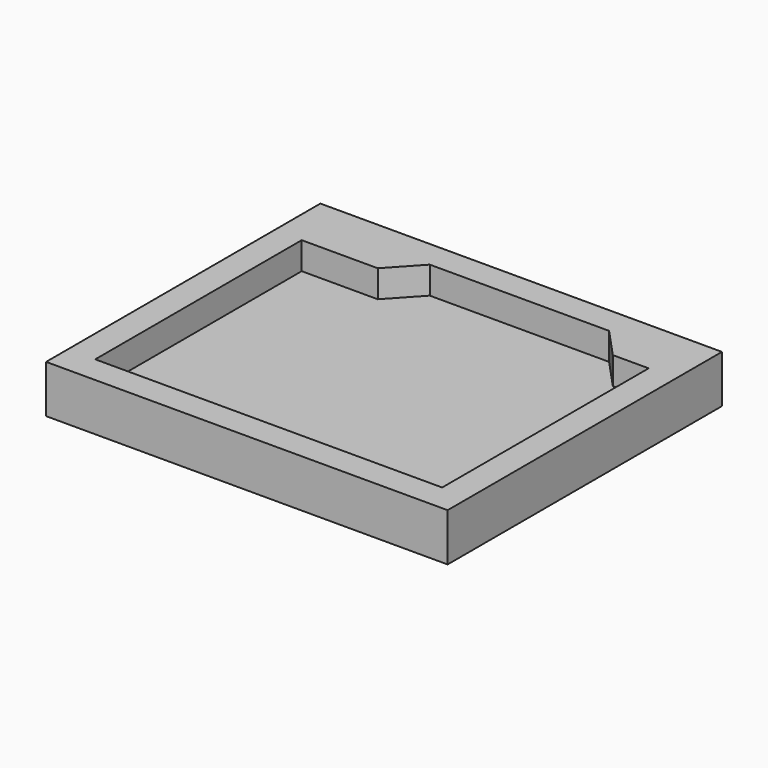
from build123d import *

# Parameters (mm, degrees)
F1_W     = 74.701578
F1_H     = 63.78875
F2_DEPTH = 8.89
F3_DEPTH = 5.08


with BuildPart() as f2:
    # F1 (on Top) → F2 (new body)
    with BuildSketch(Plane.XY):
        with Locations((32.270789, 26.814375)):
            Rectangle(F1_W, F1_H)
    extrude(amount=-F2_DEPTH)

    # F0 (on Top) → F3 (cut)
    with BuildSketch(Plane.XY):
        Polygon((0, 48.01644), (0, 0), (64.541578, 0), (64.541578, 48.01644), (57.876204, 48.01644), (52.693367, 53.62875), (19.331297, 53.62875), (14.14846, 48.01644), align=None)
    extrude(amount=-F3_DEPTH, mode=Mode.SUBTRACT)


solid = f2.part
